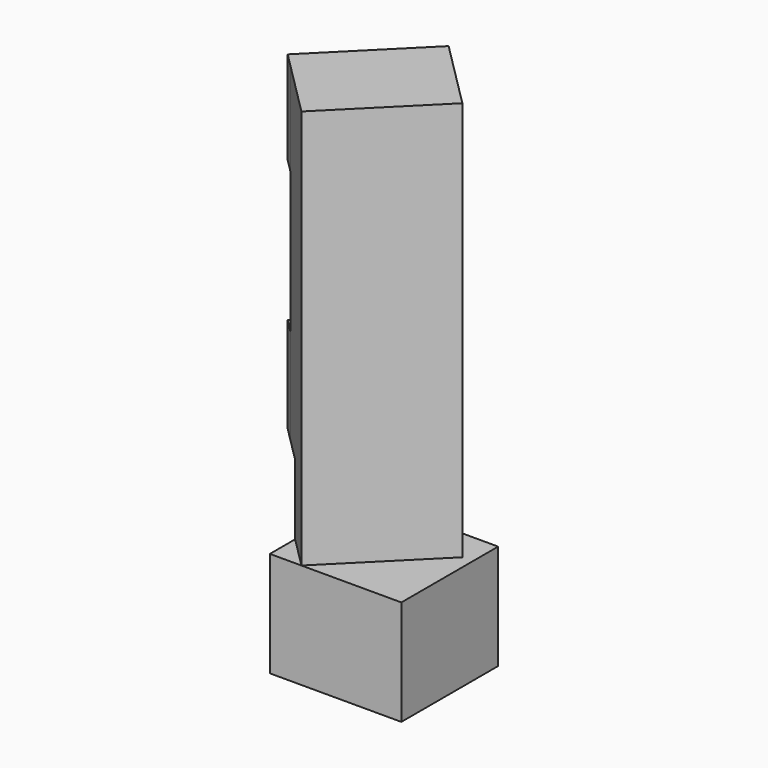
from build123d import *

# Parameters (mm, degrees)
PAD003_DEPTH    = 6
PAD022_DEPTH    = 10
SKETCH041_R     = 2.75
POCKET007_DEPTH = 3
PAD023_DEPTH    = 38
SKETCH043_W     = 12.020815
SKETCH043_H     = 31.3359
PAD024_DEPTH    = 3
PAD025_DEPTH    = 2


with BuildPart() as part:
    # Sketch013 → Pad003 (new body)
    with BuildSketch(Plane.XY):
        with BuildLine():
            Line((5.5, -5.5), (5.5, 3.5))
            Line((5.5, 3.5), (-1.5, 3.5))
            ThreePointArc((-1.5, 3.5), (-3.62132, 2.62132), (-4.5, 0.5))
            Line((-4.5, 0.5), (-4.5, -5.5))
            Line((-4.5, -5.5), (5.5, -5.5))
        make_face()
    extrude(amount=PAD003_DEPTH)

    # Sketch040 (on Face7 of Pad003) → Pad022 (new body)
    with BuildSketch(Plane.XY.offset(6)):
        Polygon((5.5, 3.5), (8, 3.5), (8, -8), (-4.5, -8), (-4.5, -5.5), (5.5, -5.5), align=None)
    extrude(amount=-PAD022_DEPTH)

    # Sketch041 (on Face4 of Pad022) → Pocket007 (cut)
    with BuildSketch(Plane(origin=(0, 0, 0), x_dir=(1, 0, 0), z_dir=(0, 0, -1))):
        Circle(SKETCH041_R)
    extrude(amount=-POCKET007_DEPTH, mode=Mode.SUBTRACT)

    # Sketch042 (on Face4 of Pocket007) → Pad023 (new body)
    with BuildSketch(Plane.XY.offset(6)):
        Polygon((-4.5, -5), (4, 3.5), (7, 0.5), (-1.5, -8), align=None)
    extrude(amount=PAD023_DEPTH)

    # Sketch043 (on Face15 of Pad023) → Pad024 (new body)
    with BuildSketch(Plane(origin=(0.25, -0.25, 0), x_dir=(-0.707107, -0.707107, 0), z_dir=(-0.707107, 0.707107, 0))):
        with Locations((0.707107, 28.33205)):
            Rectangle(SKETCH043_W, SKETCH043_H)
    extrude(amount=PAD024_DEPTH)

    # Sketch044 (on Face18 of Pad024) → Pad025 (new body)
    with BuildSketch(Plane(origin=(-1.87132, 1.87132, 0), x_dir=(-0.707107, -0.707107, 0), z_dir=(-0.707107, 0.707107, 0))):
        Polygon((-5.303301, 44), (6.717514, 44), (6.717514, 35.15), (4.096699, 35.15), (4.096699, 42.15), (-3.303301, 42.15), (-3.303301, 28), (-5.303301, 28), align=None)
        Polygon((4.096699, 14.75), (-3.303301, 14.75), (-3.303301, 12.6641), (6.717514, 12.6641), (6.717514, 21.75), (4.096699, 21.75), align=None)
    extrude(amount=PAD025_DEPTH)


solid = part.part
